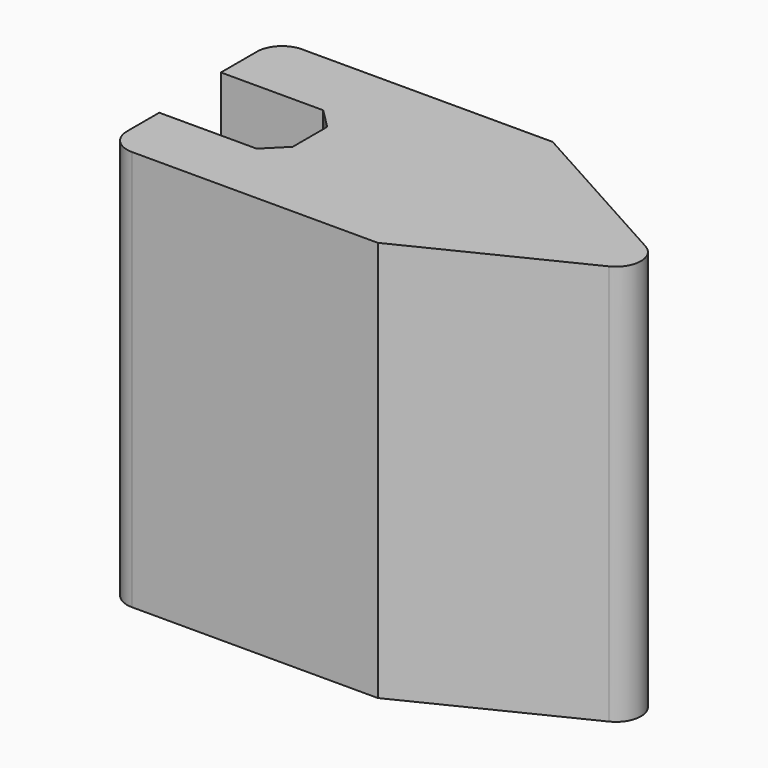
from build123d import *

# Parameters (mm, degrees)
F1_DEPTH = 101.6
F2_R     = 6.35
F3_SIZE2 = 5.08
F3_SIZE  = 5.08
F4_SIZE2 = 5.08
F4_SIZE  = 5.08
F5_R     = 6.35


with BuildPart() as f1:
    # F0 (on Top) → F1 (new body)
    with BuildSketch(Plane.XY):
        Polygon((-52.913923, 29.352266), (-122.807145, 29.352266), (-122.807145, 11.568784), (-91.789439, 11.568784), (-91.789439, -9.523253), (-121.566437, -9.523253), (-121.566437, -26.066026), (-52.913923, -26.066026), (0, 0), align=None)
    extrude(amount=F1_DEPTH)

    # F2
    f2_edges = [f1.edges().sort_by_distance(p)[0] for p in [
        (-121.566437, -26.066026, 50.8),
        (-122.807145, 29.352266, 50.8),
    ]]
    fillet(f2_edges, radius=F2_R)

    # F3
    f3_edges = [f1.edges().sort_by_distance(p)[0] for p in [
        (-91.789439, 11.568784, 50.8),
    ]]
    chamfer(f3_edges, length=F3_SIZE, length2=F3_SIZE2)

    # F4
    f4_edges = [f1.edges().sort_by_distance(p)[0] for p in [
        (-91.789439, -9.523253, 50.8),
    ]]
    chamfer(f4_edges, length=F4_SIZE, length2=F4_SIZE2)

    # F5
    f5_edges = [f1.edges().sort_by_distance(p)[0] for p in [
        (0, 0, 50.8),
    ]]
    fillet(f5_edges, radius=F5_R)


solid = f1.part
